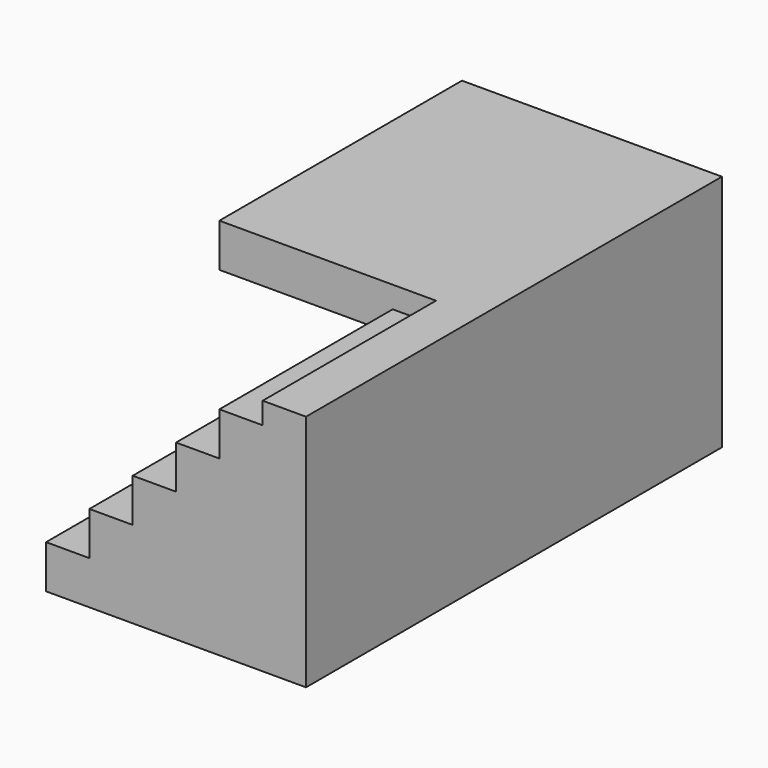
from build123d import *

# Parameters (mm, degrees)
F1_DEPTH = 2400
F2_W     = 1000
F2_H     = 200
F3_DEPTH = 1000
F5_DEPTH = 1000


with BuildPart() as f1:
    # F0 (on Front) → F1 (new body)
    with BuildSketch(Plane.XZ):
        Polygon((-1154.342916, 315.182347), (-154.342916, 315.182347), (-154.342916, -584.817653), (45.657084, -584.817653), (45.657084, 515.182347), (-1154.342916, 515.182347), align=None)
    extrude(amount=F1_DEPTH)

    # F2 (on face) → F3 (cut)
    with BuildSketch(Plane.XZ.offset(2400)):
        with Locations((-654.342916, 415.182347)):
            Rectangle(F2_W, F2_H)
    extrude(amount=-F3_DEPTH, mode=Mode.SUBTRACT)

    # F4 (on face) → F5 (join)
    with BuildSketch(Plane.XZ.offset(1400)):
        Polygon((-954.342916, -384.817653), (-1154.342916, -384.817653), (-1154.342916, -584.817653), (-154.342916, -584.817653), (-154.342916, 415.182347), (-354.342916, 415.182347), (-354.342916, 215.182347), (-554.342916, 215.182347), (-554.342916, 15.182347), (-754.342916, 15.182347), (-754.342916, -184.817653), (-954.342916, -184.817653), align=None)
        Polygon((-954.342916, -384.817653), (-1154.342916, -384.817653), (-1154.342916, -584.817653), (-154.342916, -584.817653), (-154.342916, 415.182347), (-354.342916, 415.182347), (-354.342916, 215.182347), (-554.342916, 215.182347), (-554.342916, 15.182347), (-754.342916, 15.182347), (-754.342916, -184.817653), (-954.342916, -184.817653), align=None)
    extrude(amount=F5_DEPTH)


solid = f1.part
